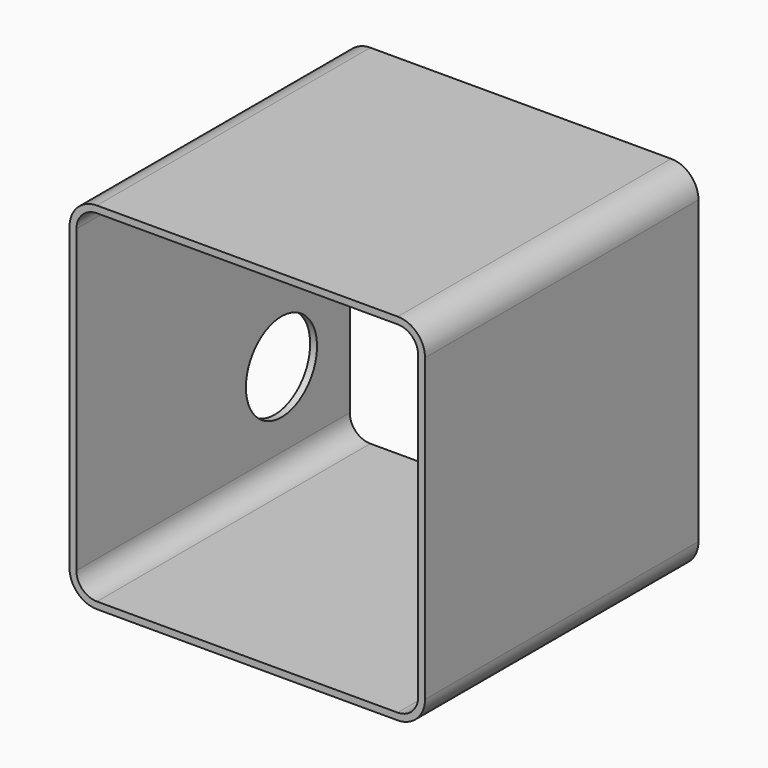
from build123d import *

# Parameters (mm, degrees)
F1_DEPTH = 500
F2_R     = 65
F3_DEPTH = 25


with BuildPart() as f1:
    # F0 (on Front) → F1 (new body)
    with BuildSketch(Plane.XZ):
        with BuildLine():
            Line((225, 260), (-215, 260))
            ThreePointArc((-215, 260), (-243.284271, 248.284271), (-255, 220))
            Line((-255, 220), (-255, -220))
            ThreePointArc((-255, -220), (-243.284271, -248.284271), (-215, -260))
            Line((-215, -260), (225, -260))
            ThreePointArc((225, -260), (253.284271, -248.284271), (265, -220))
            Line((265, -220), (265, 220))
            ThreePointArc((265, 220), (253.284271, 248.284271), (225, 260))
        make_face()
        with BuildLine():
            ThreePointArc((-245, 220), (-236.213203, 241.213203), (-215, 250))
            Line((-215, 250), (225, 250))
            ThreePointArc((225, 250), (246.213203, 241.213203), (255, 220))
            Line((255, 220), (255, -220))
            ThreePointArc((255, -220), (246.213203, -241.213203), (225, -250))
            Line((225, -250), (-215, -250))
            ThreePointArc((-215, -250), (-236.213203, -241.213203), (-245, -220))
            Line((-245, -220), (-245, 220))
        make_face(mode=Mode.SUBTRACT)
    extrude(amount=-F1_DEPTH)

    # F2 (on face) → F3 (cut)
    with BuildSketch(Plane(origin=(-255, 0, 0), x_dir=(0, -1, 0), z_dir=(-1, 0, 0))):
        with Locations((-375, 110)):
            Circle(F2_R)
        with Locations((-375, -110)):
            Circle(F2_R)
    extrude(amount=-F3_DEPTH, mode=Mode.SUBTRACT)


solid = f1.part
